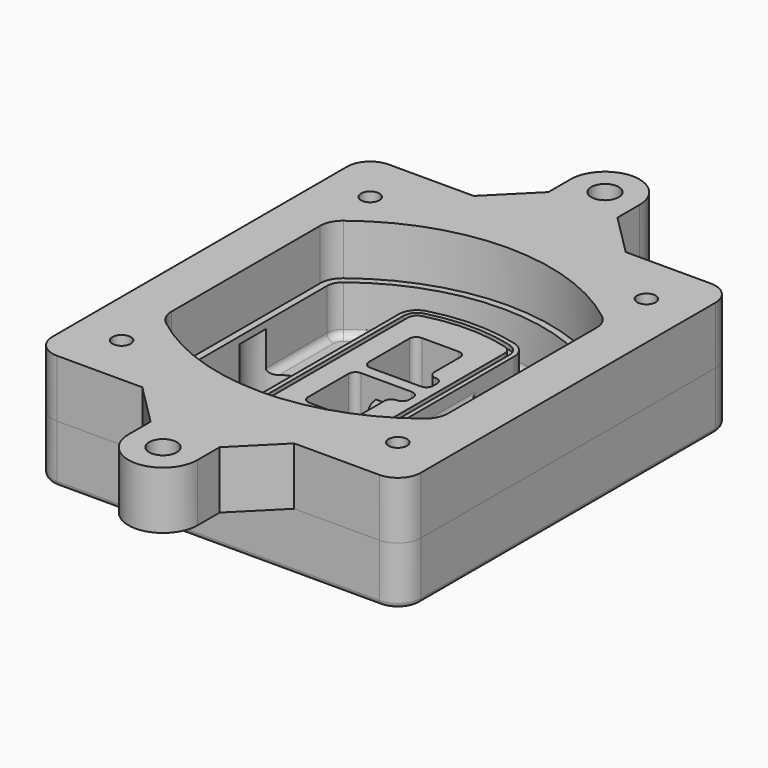
from build123d import *

# Parameters (mm, degrees)
F0_R      = 4
F1_DEPTH  = 25
F2_DEPTH  = 3
F3_DEPTH  = 18
F5_DEPTH  = 21
F6_DEPTH  = 2
F8_DEPTH  = 20
F9_DEPTH  = 16
F10_DEPTH = 25
F7_R      = 6
F7_R_2    = 4
F11_DEPTH = 6
F13_DEPTH = 9
F14_R     = 3
F15_R     = 2
F16_R     = 4
F16_R_2   = 6
F17_DEPTH = 25


with BuildPart() as f1:
    # F0 (on Top) → F1 (new body)
    with BuildSketch(Plane.XY):
        with BuildLine():
            ThreePointArc((-80, -80), (-77.0710678119, -87.0710678119), (-70, -90))
            Line((-70, -90), (70, -90))
            ThreePointArc((70, -90), (77.0710678119, -87.0710678119), (80, -80))
            Line((80, -80), (80, 80))
            ThreePointArc((80, 80), (77.0710678119, 87.0710678119), (70, 90))
            Line((70, 90), (-70, 90))
            ThreePointArc((-70, 90), (-77.0710678119, 87.0710678119), (-80, 80))
            Line((-80, 80), (-80, -80))
        make_face()
        with Locations((-60, -67.5)):
            Circle(F0_R, mode=Mode.SUBTRACT)
        with Locations((60, -67.5)):
            Circle(F0_R, mode=Mode.SUBTRACT)
        with Locations((-60, 67.5)):
            Circle(F0_R, mode=Mode.SUBTRACT)
        with BuildLine():
            ThreePointArc((-64, 40.2934422872), (-62.5820384798, 46.4328484224), (-58.6153846154, 51.3286200352))
            ThreePointArc((-58.6153846154, 51.3286200352), (0, 71.5), (58.6153846154, 51.3286200352))
            ThreePointArc((58.6153846154, 51.3286200352), (62.5820384798, 46.4328484224), (64, 40.2934422872))
            Line((64, 40.2934422872), (64, -40.2934422872))
            ThreePointArc((64, -40.2934422872), (62.5820384798, -46.4328484224), (58.6153846154, -51.3286200352))
            ThreePointArc((58.6153846154, -51.3286200352), (0, -71.5), (-58.6153846154, -51.3286200352))
            ThreePointArc((-58.6153846154, -51.3286200352), (-62.5820384798, -46.4328484224), (-64, -40.2934422872))
            Line((-64, -40.2934422872), (-64, 40.2934422872))
        make_face(mode=Mode.SUBTRACT)
        with Locations((60, 67.5)):
            Circle(F0_R, mode=Mode.SUBTRACT)
        with BuildLine():
            ThreePointArc((58.6153846154, 51.3286200352), (0, 71.5), (-58.6153846154, 51.3286200352))
            ThreePointArc((-58.6153846154, 51.3286200352), (-62.5820384798, 46.4328484224), (-64, 40.2934422872))
            Line((-64, 40.2934422872), (-64, -40.2934422872))
            ThreePointArc((-64, -40.2934422872), (-62.5820384798, -46.4328484224), (-58.6153846154, -51.3286200352))
            ThreePointArc((-58.6153846154, -51.3286200352), (0, -71.5), (58.6153846154, -51.3286200352))
            ThreePointArc((58.6153846154, -51.3286200352), (62.5820384798, -46.4328484224), (64, -40.2934422872))
            Line((64, -40.2934422872), (64, 40.2934422872))
            ThreePointArc((64, 40.2934422872), (62.5820384798, 46.4328484224), (58.6153846154, 51.3286200352))
        make_face()
        with BuildLine():
            Line((-60, -40.2934422872), (-60, 40.2934422872))
            ThreePointArc((-60, 40.2934422872), (-58.9871703427, 44.6787323838), (-56.1538461538, 48.1757121072))
            ThreePointArc((-56.1538461538, 48.1757121072), (0, 67.5), (56.1538461538, 48.1757121072))
            ThreePointArc((56.1538461538, 48.1757121072), (58.9871703427, 44.6787323838), (60, 40.2934422872))
            Line((60, 40.2934422872), (60, -40.2934422872))
            ThreePointArc((60, -40.2934422872), (58.9871703427, -44.6787323838), (56.1538461538, -48.1757121072))
            ThreePointArc((56.1538461538, -48.1757121072), (0, -67.5), (-56.1538461538, -48.1757121072))
            ThreePointArc((-56.1538461538, -48.1757121072), (-58.9871703427, -44.6787323838), (-60, -40.2934422872))
        make_face(mode=Mode.SUBTRACT)
        with BuildLine():
            ThreePointArc((-56.1538461538, 48.1757121072), (-58.9871703427, 44.6787323838), (-60, 40.2934422872))
            Line((-60, 40.2934422872), (-60, -40.2934422872))
            ThreePointArc((-60, -40.2934422872), (-58.9871703427, -44.6787323838), (-56.1538461538, -48.1757121072))
            ThreePointArc((-56.1538461538, -48.1757121072), (0, -67.5), (56.1538461538, -48.1757121072))
            ThreePointArc((56.1538461538, -48.1757121072), (58.9871703427, -44.6787323838), (60, -40.2934422872))
            Line((60, -40.2934422872), (60, 40.2934422872))
            ThreePointArc((60, 40.2934422872), (58.9871703427, 44.6787323838), (56.1538461538, 48.1757121072))
            ThreePointArc((56.1538461538, 48.1757121072), (0, 67.5), (-56.1538461538, 48.1757121072))
        make_face()
        with BuildLine():
            ThreePointArc((54.3076923077, 45.8110311612), (56.2910192399, 43.3631453548), (57, 40.2934422872))
            Line((57, 40.2934422872), (57, -40.2934422872))
            ThreePointArc((57, -40.2934422872), (56.2910192399, -43.3631453548), (54.3076923077, -45.8110311612))
            ThreePointArc((54.3076923077, -45.8110311612), (0, -64.5), (-54.3076923077, -45.8110311612))
            ThreePointArc((-54.3076923077, -45.8110311612), (-56.2910192399, -43.3631453548), (-57, -40.2934422872))
            Line((-57, -40.2934422872), (-57, 40.2934422872))
            ThreePointArc((-57, 40.2934422872), (-56.2910192399, 43.3631453548), (-54.3076923077, 45.8110311612))
            ThreePointArc((-54.3076923077, 45.8110311612), (0, 64.5), (54.3076923077, 45.8110311612))
        make_face(mode=Mode.SUBTRACT)
        with BuildLine():
            Line((57, -40.2934422872), (57, 40.2934422872))
            ThreePointArc((57, 40.2934422872), (56.2910192399, 43.3631453548), (54.3076923077, 45.8110311612))
            ThreePointArc((54.3076923077, 45.8110311612), (0, 64.5), (-54.3076923077, 45.8110311612))
            ThreePointArc((-54.3076923077, 45.8110311612), (-56.2910192399, 43.3631453548), (-57, 40.2934422872))
            Line((-57, 40.2934422872), (-57, -40.2934422872))
            ThreePointArc((-57, -40.2934422872), (-56.2910192399, -43.3631453548), (-54.3076923077, -45.8110311612))
            ThreePointArc((-54.3076923077, -45.8110311612), (0, -64.5), (54.3076923077, -45.8110311612))
            ThreePointArc((54.3076923077, -45.8110311612), (56.2910192399, -43.3631453548), (57, -40.2934422872))
        make_face()
    extrude(amount=-F1_DEPTH)

    # F0 (on Top) → F2 (join)
    with BuildSketch(Plane.XY):
        with BuildLine():
            ThreePointArc((-56.1538461538, 48.1757121072), (-58.9871703427, 44.6787323838), (-60, 40.2934422872))
            Line((-60, 40.2934422872), (-60, -40.2934422872))
            ThreePointArc((-60, -40.2934422872), (-58.9871703427, -44.6787323838), (-56.1538461538, -48.1757121072))
            ThreePointArc((-56.1538461538, -48.1757121072), (0, -67.5), (56.1538461538, -48.1757121072))
            ThreePointArc((56.1538461538, -48.1757121072), (58.9871703427, -44.6787323838), (60, -40.2934422872))
            Line((60, -40.2934422872), (60, 40.2934422872))
            ThreePointArc((60, 40.2934422872), (58.9871703427, 44.6787323838), (56.1538461538, 48.1757121072))
            ThreePointArc((56.1538461538, 48.1757121072), (0, 67.5), (-56.1538461538, 48.1757121072))
        make_face()
        with BuildLine():
            ThreePointArc((54.3076923077, 45.8110311612), (56.2910192399, 43.3631453548), (57, 40.2934422872))
            Line((57, 40.2934422872), (57, -40.2934422872))
            ThreePointArc((57, -40.2934422872), (56.2910192399, -43.3631453548), (54.3076923077, -45.8110311612))
            ThreePointArc((54.3076923077, -45.8110311612), (0, -64.5), (-54.3076923077, -45.8110311612))
            ThreePointArc((-54.3076923077, -45.8110311612), (-56.2910192399, -43.3631453548), (-57, -40.2934422872))
            Line((-57, -40.2934422872), (-57, 40.2934422872))
            ThreePointArc((-57, 40.2934422872), (-56.2910192399, 43.3631453548), (-54.3076923077, 45.8110311612))
            ThreePointArc((-54.3076923077, 45.8110311612), (0, 64.5), (54.3076923077, 45.8110311612))
        make_face(mode=Mode.SUBTRACT)
    extrude(amount=F2_DEPTH)

    # F0 (on Top) → F3 (cut)
    with BuildSketch(Plane.XY):
        with BuildLine():
            Line((57, -40.2934422872), (57, 40.2934422872))
            ThreePointArc((57, 40.2934422872), (56.2910192399, 43.3631453548), (54.3076923077, 45.8110311612))
            ThreePointArc((54.3076923077, 45.8110311612), (0, 64.5), (-54.3076923077, 45.8110311612))
            ThreePointArc((-54.3076923077, 45.8110311612), (-56.2910192399, 43.3631453548), (-57, 40.2934422872))
            Line((-57, 40.2934422872), (-57, -40.2934422872))
            ThreePointArc((-57, -40.2934422872), (-56.2910192399, -43.3631453548), (-54.3076923077, -45.8110311612))
            ThreePointArc((-54.3076923077, -45.8110311612), (0, -64.5), (54.3076923077, -45.8110311612))
            ThreePointArc((54.3076923077, -45.8110311612), (56.2910192399, -43.3631453548), (57, -40.2934422872))
        make_face()
    extrude(amount=-F3_DEPTH, mode=Mode.SUBTRACT)

    # F4 (on face) → F5 (join, through all)
    with BuildSketch(Plane.XY.offset(3)):
        with BuildLine():
            ThreePointArc((-25, -39.2465276821), (-23.3511545998, -44.1109737193), (-19.0842911877, -46.9702398883))
            ThreePointArc((-19.0842911877, -46.9702398883), (0, -49.5), (19.0842911877, -46.9702398883))
            ThreePointArc((19.0842911877, -46.9702398883), (23.3511545998, -44.1109737193), (25, -39.2465276821))
            Line((25, -39.2465276821), (25, 39.2465276821))
            ThreePointArc((25, 39.2465276821), (23.3511545998, 44.1109737193), (19.0842911877, 46.9702398883))
            ThreePointArc((19.0842911877, 46.9702398883), (0, 49.5), (-19.0842911877, 46.9702398883))
            ThreePointArc((-19.0842911877, 46.9702398883), (-23.3511545998, 44.1109737193), (-25, 39.2465276821))
            Line((-25, 39.2465276821), (-25, -39.2465276821))
        make_face()
        with BuildLine():
            ThreePointArc((18.5632183908, 45.0393118368), (21.7633659499, 42.89486221), (23, 39.2465276821))
            Line((23, 39.2465276821), (23, -39.2465276821))
            ThreePointArc((23, -39.2465276821), (21.7633659499, -42.89486221), (18.5632183908, -45.0393118368))
            ThreePointArc((18.5632183908, -45.0393118368), (0, -47.5), (-18.5632183908, -45.0393118368))
            ThreePointArc((-18.5632183908, -45.0393118368), (-21.7633659499, -42.89486221), (-23, -39.2465276821))
            Line((-23, -39.2465276821), (-23, 39.2465276821))
            ThreePointArc((-23, 39.2465276821), (-21.7633659499, 42.89486221), (-18.5632183908, 45.0393118368))
            ThreePointArc((-18.5632183908, 45.0393118368), (0, 47.5), (18.5632183908, 45.0393118368))
        make_face(mode=Mode.SUBTRACT)
        with BuildLine():
            Line((23, -39.2465276821), (23, 39.2465276821))
            ThreePointArc((23, 39.2465276821), (21.7633659499, 42.89486221), (18.5632183908, 45.0393118368))
            ThreePointArc((18.5632183908, 45.0393118368), (0, 47.5), (-18.5632183908, 45.0393118368))
            ThreePointArc((-18.5632183908, 45.0393118368), (-21.7633659499, 42.89486221), (-23, 39.2465276821))
            Line((-23, 39.2465276821), (-23, -39.2465276821))
            ThreePointArc((-23, -39.2465276821), (-21.7633659499, -42.89486221), (-18.5632183908, -45.0393118368))
            ThreePointArc((-18.5632183908, -45.0393118368), (0, -47.5), (18.5632183908, -45.0393118368))
            ThreePointArc((18.5632183908, -45.0393118368), (21.7633659499, -42.89486221), (23, -39.2465276821))
        make_face()
        with BuildLine():
            ThreePointArc((18.0421455939, 43.1083837852), (20.1755772999, 41.6787507007), (21, 39.2465276821))
            Line((21, 39.2465276821), (21, -39.2465276821))
            ThreePointArc((21, -39.2465276821), (20.1755772999, -41.6787507007), (18.0421455939, -43.1083837852))
            ThreePointArc((18.0421455939, -43.1083837852), (0, -45.5), (-18.0421455939, -43.1083837852))
            ThreePointArc((-18.0421455939, -43.1083837852), (-20.1755772999, -41.6787507007), (-21, -39.2465276821))
            Line((-21, -39.2465276821), (-21, 39.2465276821))
            ThreePointArc((-21, 39.2465276821), (-20.1755772999, 41.6787507007), (-18.0421455939, 43.1083837852))
            ThreePointArc((-18.0421455939, 43.1083837852), (0, 45.5), (18.0421455939, 43.1083837852))
        make_face(mode=Mode.SUBTRACT)
        with BuildLine():
            Line((21, -39.2465276821), (21, 39.2465276821))
            ThreePointArc((21, 39.2465276821), (20.1755772999, 41.6787507007), (18.0421455939, 43.1083837852))
            ThreePointArc((18.0421455939, 43.1083837852), (0, 45.5), (-18.0421455939, 43.1083837852))
            ThreePointArc((-18.0421455939, 43.1083837852), (-20.1755772999, 41.6787507007), (-21, 39.2465276821))
            Line((-21, 39.2465276821), (-21, -39.2465276821))
            ThreePointArc((-21, -39.2465276821), (-20.1755772999, -41.6787507007), (-18.0421455939, -43.1083837852))
            ThreePointArc((-18.0421455939, -43.1083837852), (0, -45.5), (18.0421455939, -43.1083837852))
            ThreePointArc((18.0421455939, -43.1083837852), (20.1755772999, -41.6787507007), (21, -39.2465276821))
        make_face()
        with BuildLine():
            Line((-8, -2.5), (14, -2.5))
            ThreePointArc((14, -2.5), (16.1213203436, -3.3786796564), (17, -5.5))
            Line((17, -5.5), (17, -7.5))
            ThreePointArc((17, -7.5), (16.1213203436, -9.6213203436), (14, -10.5))
            ThreePointArc((14, -10.5), (11.8786796564, -11.3786796564), (11, -13.5))
            Line((11, -13.5), (11, -27.5))
            ThreePointArc((11, -27.5), (10.1213203436, -29.6213203436), (8, -30.5))
            Line((8, -30.5), (-8, -30.5))
            ThreePointArc((-8, -30.5), (-10.1213203436, -29.6213203436), (-11, -27.5))
            Line((-11, -27.5), (-11, -5.5))
            ThreePointArc((-11, -5.5), (-10.1213203436, -3.3786796564), (-8, -2.5))
        make_face(mode=Mode.SUBTRACT)
        with BuildLine():
            ThreePointArc((-8, 2.5), (-10.1213203436, 3.3786796564), (-11, 5.5))
            Line((-11, 5.5), (-11, 27.5))
            ThreePointArc((-11, 27.5), (-10.1213203436, 29.6213203436), (-8, 30.5))
            Line((-8, 30.5), (8, 30.5))
            ThreePointArc((8, 30.5), (10.1213203436, 29.6213203436), (11, 27.5))
            Line((11, 27.5), (11, 13.5))
            ThreePointArc((11, 13.5), (11.8786796564, 11.3786796564), (14, 10.5))
            ThreePointArc((14, 10.5), (16.1213203436, 9.6213203436), (17, 7.5))
            Line((17, 7.5), (17, 5.5))
            ThreePointArc((17, 5.5), (16.1213203436, 3.3786796564), (14, 2.5))
            Line((14, 2.5), (-8, 2.5))
        make_face(mode=Mode.SUBTRACT)
    extrude(amount=-F5_DEPTH)

    # F4 (on face) → F6 (cut)
    with BuildSketch(Plane.XY.offset(3)):
        with BuildLine():
            Line((23, -39.2465276821), (23, 39.2465276821))
            ThreePointArc((23, 39.2465276821), (21.7633659499, 42.89486221), (18.5632183908, 45.0393118368))
            ThreePointArc((18.5632183908, 45.0393118368), (0, 47.5), (-18.5632183908, 45.0393118368))
            ThreePointArc((-18.5632183908, 45.0393118368), (-21.7633659499, 42.89486221), (-23, 39.2465276821))
            Line((-23, 39.2465276821), (-23, -39.2465276821))
            ThreePointArc((-23, -39.2465276821), (-21.7633659499, -42.89486221), (-18.5632183908, -45.0393118368))
            ThreePointArc((-18.5632183908, -45.0393118368), (0, -47.5), (18.5632183908, -45.0393118368))
            ThreePointArc((18.5632183908, -45.0393118368), (21.7633659499, -42.89486221), (23, -39.2465276821))
        make_face()
        with BuildLine():
            ThreePointArc((18.0421455939, 43.1083837852), (20.1755772999, 41.6787507007), (21, 39.2465276821))
            Line((21, 39.2465276821), (21, -39.2465276821))
            ThreePointArc((21, -39.2465276821), (20.1755772999, -41.6787507007), (18.0421455939, -43.1083837852))
            ThreePointArc((18.0421455939, -43.1083837852), (0, -45.5), (-18.0421455939, -43.1083837852))
            ThreePointArc((-18.0421455939, -43.1083837852), (-20.1755772999, -41.6787507007), (-21, -39.2465276821))
            Line((-21, -39.2465276821), (-21, 39.2465276821))
            ThreePointArc((-21, 39.2465276821), (-20.1755772999, 41.6787507007), (-18.0421455939, 43.1083837852))
            ThreePointArc((-18.0421455939, 43.1083837852), (0, 45.5), (18.0421455939, 43.1083837852))
        make_face(mode=Mode.SUBTRACT)
    extrude(amount=-F6_DEPTH, mode=Mode.SUBTRACT)

    # F7 (on face) → F8 (join)
    with BuildSketch(Plane(origin=(0, 0, -25), x_dir=(1, 0, 0), z_dir=(0, 0, -1))):
        with BuildLine():
            ThreePointArc((3.28842436, 0), (16.7567035675, 13.4682792075), (30.224982775, 0))
            Line((30.224982775, 0), (35.224982775, 0))
            ThreePointArc((35.224982775, 0), (16.7567035675, 18.4682792075), (-1.71157564, 0))
            Line((-1.71157564, 0), (3.28842436, 0))
        make_face()
        with BuildLine():
            Line((3.28842436, 0), (30.224982775, 0))
            ThreePointArc((30.224982775, 0), (16.7567035675, 13.4682792075), (3.28842436, 0))
        make_face()
        with BuildLine():
            ThreePointArc((3.28842436, 0), (16.7567035675, -13.4682792075), (30.224982775, 0))
            Line((30.224982775, 0), (3.28842436, 0))
        make_face()
        with BuildLine():
            Line((35.224982775, 0), (30.224982775, 0))
            ThreePointArc((30.224982775, 0), (16.7567035675, -13.4682792075), (3.28842436, 0))
            Line((3.28842436, 0), (-1.71157564, 0))
            ThreePointArc((-1.71157564, 0), (16.7567035675, -18.4682792075), (35.224982775, 0))
        make_face()
    extrude(amount=-F8_DEPTH)

    # F7 (on face) → F9 (cut)
    with BuildSketch(Plane(origin=(0, 0, -25), x_dir=(1, 0, 0), z_dir=(0, 0, -1))):
        with BuildLine():
            Line((3.28842436, 0), (30.224982775, 0))
            ThreePointArc((30.224982775, 0), (16.7567035675, 13.4682792075), (3.28842436, 0))
        make_face()
        with BuildLine():
            ThreePointArc((3.28842436, 0), (16.7567035675, -13.4682792075), (30.224982775, 0))
            Line((30.224982775, 0), (3.28842436, 0))
        make_face()
    extrude(amount=-F9_DEPTH, mode=Mode.SUBTRACT)

    # F7 (on face) → F10 (cut)
    with BuildSketch(Plane(origin=(0, 0, -25), x_dir=(1, 0, 0), z_dir=(0, 0, -1))):
        with BuildLine():
            Line((-59.0318229325, 0), (-32.0952645175, 0))
            ThreePointArc((-32.0952645175, 0), (-45.563543725, 13.4682792075), (-59.0318229325, 0))
        make_face()
        with BuildLine():
            ThreePointArc((-59.0318229325, 0), (-45.563543725, -13.4682792075), (-32.0952645175, 0))
            Line((-32.0952645175, 0), (-59.0318229325, 0))
        make_face()
    extrude(amount=-F10_DEPTH, mode=Mode.SUBTRACT)

    # F7 (on face) → F11 (cut)
    with BuildSketch(Plane(origin=(0, 0, -25), x_dir=(1, 0, 0), z_dir=(0, 0, -1))):
        with Locations((60, -67.5)):
            Circle(F7_R)
        with Locations((60, -67.5)):
            Circle(F7_R_2, mode=Mode.SUBTRACT)
        with Locations((60, -67.5)):
            Circle(F7_R)
        with Locations((60, -67.5)):
            Circle(F7_R_2, mode=Mode.SUBTRACT)
        with Locations((-60, -67.5)):
            Circle(F7_R)
        with Locations((-60, -67.5)):
            Circle(F7_R_2, mode=Mode.SUBTRACT)
        with Locations((-60, -67.5)):
            Circle(F7_R)
        with Locations((-60, -67.5)):
            Circle(F7_R_2, mode=Mode.SUBTRACT)
        with Locations((-60, 67.5)):
            Circle(F7_R)
        with Locations((-60, 67.5)):
            Circle(F7_R_2, mode=Mode.SUBTRACT)
        with Locations((-60, 67.5)):
            Circle(F7_R)
        with Locations((-60, 67.5)):
            Circle(F7_R_2, mode=Mode.SUBTRACT)
        with Locations((60, 67.5)):
            Circle(F7_R)
        with Locations((60, 67.5)):
            Circle(F7_R_2, mode=Mode.SUBTRACT)
        with Locations((60, 67.5)):
            Circle(F7_R)
        with Locations((60, 67.5)):
            Circle(F7_R_2, mode=Mode.SUBTRACT)
    extrude(amount=-F11_DEPTH, mode=Mode.SUBTRACT)

    # F12 (on face) → F13 (cut, through all)
    with BuildSketch(Plane(origin=(0, 0, -9), x_dir=(1, 0, 0), z_dir=(0, 0, -1))):
        with BuildLine():
            Line((11, 13.5), (11, 17.5481537753))
            ThreePointArc((11, 17.5481537753), (2.5696536419, 11.8239143813), (-1.5415842455, 2.5))
            Line((-1.5415842455, 2.5), (3.5224848595, 2.5))
            ThreePointArc((3.5224848595, 2.5), (6.1857188154, 8.3455872281), (11.2536447004, 12.2927168648))
            ThreePointArc((11.2536447004, 12.2927168648), (11.0640958889, 12.8831798879), (11, 13.5))
        make_face()
        with BuildLine():
            ThreePointArc((11.2536447004, -12.2927168648), (6.1857188154, -8.3455872281), (3.5224848595, -2.5))
            Line((3.5224848595, -2.5), (-1.5415842455, -2.5))
            ThreePointArc((-1.5415842455, -2.5), (2.5696536419, -11.8239143813), (11, -17.5481537753))
            Line((11, -17.5481537753), (11, -13.5))
            ThreePointArc((11, -13.5), (11.0640958889, -12.8831798879), (11.2536447004, -12.2927168648))
        make_face()
        with BuildLine():
            ThreePointArc((11.2536447004, 12.2927168648), (6.1857188154, 8.3455872281), (3.5224848595, 2.5))
            Line((3.5224848595, 2.5), (14, 2.5))
            ThreePointArc((14, 2.5), (16.1213203436, 3.3786796564), (17, 5.5))
            Line((17, 5.5), (17, 7.5))
            ThreePointArc((17, 7.5), (16.1213203436, 9.6213203436), (14, 10.5))
            ThreePointArc((14, 10.5), (12.3601599782, 10.9878446101), (11.2536447004, 12.2927168648))
        make_face()
        with BuildLine():
            Line((14, -2.5), (3.5224848595, -2.5))
            ThreePointArc((3.5224848595, -2.5), (6.1857188154, -8.3455872281), (11.2536447004, -12.2927168648))
            ThreePointArc((11.2536447004, -12.2927168648), (12.3601599782, -10.9878446101), (14, -10.5))
            ThreePointArc((14, -10.5), (16.1213203436, -9.6213203436), (17, -7.5))
            Line((17, -7.5), (17, -5.5))
            ThreePointArc((17, -5.5), (16.1213203436, -3.3786796564), (14, -2.5))
        make_face()
    extrude(amount=F13_DEPTH, mode=Mode.SUBTRACT)

    # F14
    f14_edges = [f1.edges().sort_by_distance(p)[0] for p in [
        (-57, -23.703476, -18),
        (-57, 23.703476, -18),
        (25, 0, -5),
        (25, 16.526506, -11.5),
        (25, -16.526506, -11.5),
        (25, -27.886517, -18),
        (35.224983, 0, -18),
    ]]
    fillet(f14_edges, radius=F14_R)

    # F15
    f15_edges = [f1.edges().sort_by_distance(p)[0] for p in [
        (0, -90, -25),
    ]]
    fillet(f15_edges, radius=F15_R)


with BuildPart() as f17:
    # F16 (on face) → F17 (new body)
    with BuildSketch(Plane.XY):
        with BuildLine():
            Line((33, -90), (70, -90))
            ThreePointArc((70, -90), (77.0710678119, -87.0710678119), (80, -80))
            Line((80, -80), (80, 80))
            ThreePointArc((80, 80), (77.0710678119, 87.0710678119), (70, 90))
            Line((70, 90), (33, 90))
            Line((33, 90), (-33, 90))
            Line((-33, 90), (-70, 90))
            ThreePointArc((-70, 90), (-77.0710678119, 87.0710678119), (-80, 80))
            Line((-80, 80), (-80, -80))
            ThreePointArc((-80, -80), (-77.0710678119, -87.0710678119), (-70, -90))
            Line((-70, -90), (-33, -90))
            Line((-33, -90), (33, -90))
        make_face()
        with Locations((-60, -67.5)):
            Circle(F16_R, mode=Mode.SUBTRACT)
        with Locations((60, -67.5)):
            Circle(F16_R, mode=Mode.SUBTRACT)
        with Locations((-60, 67.5)):
            Circle(F16_R, mode=Mode.SUBTRACT)
        with BuildLine():
            Line((-60, -40.2934422872), (-60, 40.2934422872))
            ThreePointArc((-60, 40.2934422872), (-58.9871703427, 44.6787323838), (-56.1538461538, 48.1757121072))
            ThreePointArc((-56.1538461538, 48.1757121072), (0, 67.5), (56.1538461538, 48.1757121072))
            ThreePointArc((56.1538461538, 48.1757121072), (58.9871703427, 44.6787323838), (60, 40.2934422872))
            Line((60, 40.2934422872), (60, -40.2934422872))
            ThreePointArc((60, -40.2934422872), (58.9871703427, -44.6787323838), (56.1538461538, -48.1757121072))
            ThreePointArc((56.1538461538, -48.1757121072), (0, -67.5), (-56.1538461538, -48.1757121072))
            ThreePointArc((-56.1538461538, -48.1757121072), (-58.9871703427, -44.6787323838), (-60, -40.2934422872))
        make_face(mode=Mode.SUBTRACT)
        with Locations((60, 67.5)):
            Circle(F16_R, mode=Mode.SUBTRACT)
        with BuildLine():
            Line((15, -108), (33, -90))
            Line((33, -90), (-33, -90))
            Line((-33, -90), (-15, -108))
            Line((-15, -108), (-15, -120))
            ThreePointArc((-15, -120), (0, -135), (15, -120))
            Line((15, -120), (15, -108))
        make_face()
        with Locations((0, -120)):
            Circle(F16_R_2, mode=Mode.SUBTRACT)
        with BuildLine():
            Line((-33, 90), (33, 90))
            Line((33, 90), (15, 108))
            Line((15, 108), (15, 120))
            ThreePointArc((15, 120), (0, 135), (-15, 120))
            Line((-15, 120), (-15, 108))
            Line((-15, 108), (-33, 90))
        make_face()
        with Locations((0, 120)):
            Circle(F16_R_2, mode=Mode.SUBTRACT)
    extrude(amount=F17_DEPTH)


solid = Compound([f1.part, f17.part])
